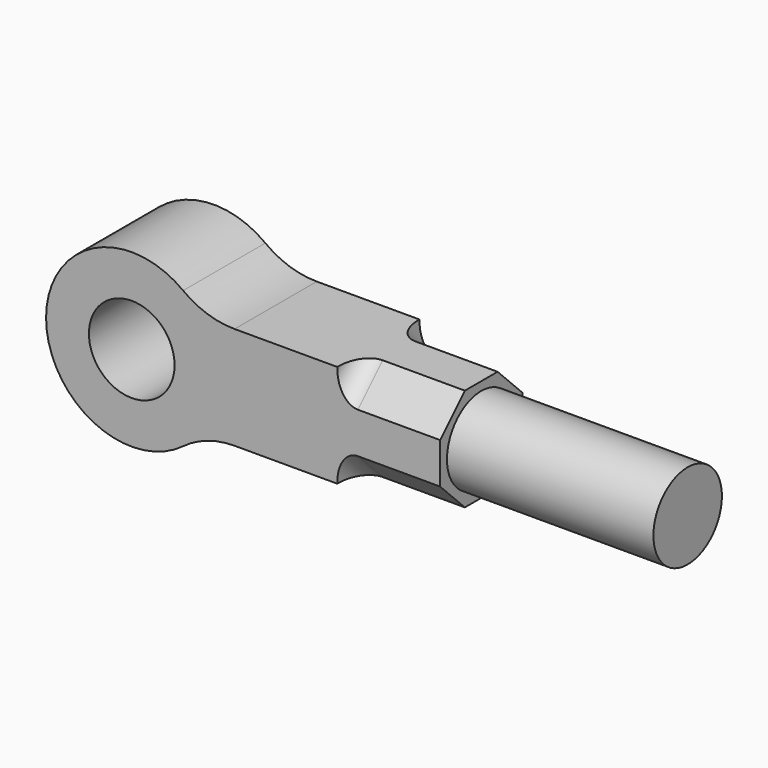
from build123d import *

# Parameters (mm, degrees)
F0_R     = 250
F1_DEPTH = 600
F3_DEPTH = 600
F4_R     = 250
F5_DEPTH = 1205
F6_R     = 120


with BuildPart() as f1:
    # F0 (on Front) → F1 (new body)
    with BuildSketch(Plane.XZ):
        with BuildLine():
            ThreePointArc((600, 300), (441.886117, 325.658351), (300, 400))
            ThreePointArc((300, 400), (-500, 0), (300, -400))
            ThreePointArc((300, -400), (441.886117, -325.658351), (600, -300))
            Line((600, -300), (1800, -300))
            Line((1800, -300), (1800, 300))
            Line((1800, 300), (600, 300))
        make_face()
        Circle(F0_R, mode=Mode.SUBTRACT)
    extrude(amount=F1_DEPTH)

    # F2 (on face) → F3 (cut)
    with BuildSketch(Plane.YZ.offset(1800)):
        Polygon((-600, 119.4), (-419.4, 300), (-600, 300), align=None)
        Polygon((0, 300), (-180.6, 300), (0, 119.4), align=None)
        Polygon((0, -300), (0, -119.4), (-180.6, -300), align=None)
        Polygon((-419.4, -300), (-600, -119.4), (-600, -300), align=None)
    extrude(amount=-F3_DEPTH, mode=Mode.SUBTRACT)

    # F4 (on face) → F5 (join)
    with BuildSketch(Plane.YZ.offset(1800)):
        with Locations((-300, 0)):
            Circle(F4_R)
    extrude(amount=F5_DEPTH)

    # F6
    f6_edges = [f1.edges().sort_by_distance(p)[0] for p in [
        (1200, -509.7, 209.7),
        (1200, -509.7, -209.7),
        (1200, -90.3, -209.7),
        (1200, -90.3, 209.7),
    ]]
    fillet(f6_edges, radius=F6_R)


solid = f1.part
